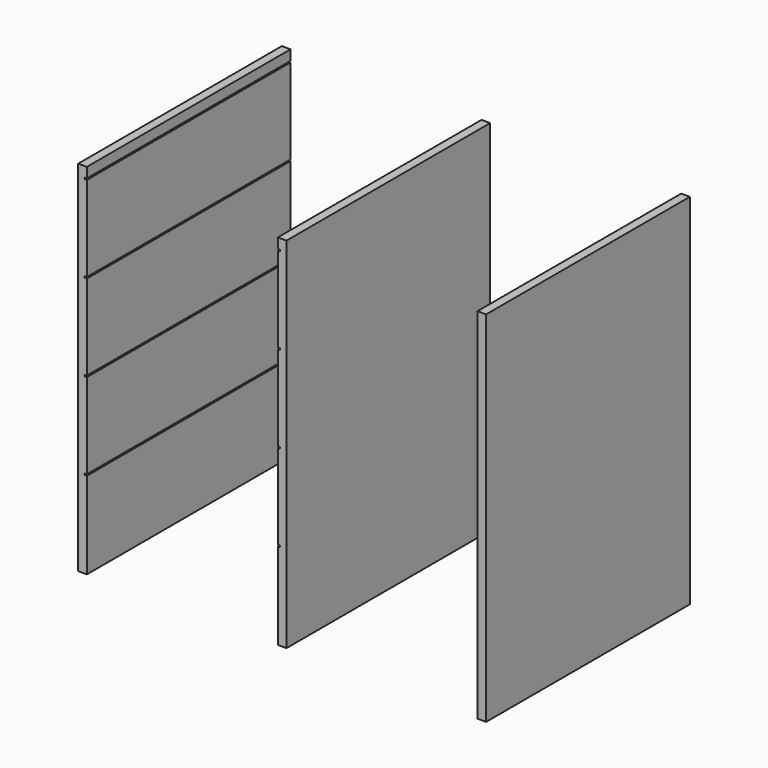
from build123d import *

# Parameters (mm, degrees)
F0_W     = 19.05
F0_H     = 787.4
F1_DEPTH = 558.8
F2_W     = 428.625
F2_H     = 3.175
F3_DEPTH = 558.801


with BuildPart() as f1:
    # F0 (on Front) → F1 (new body)
    with BuildSketch(Plane.XZ):
        with Locations((9.525, 393.7)):
            Rectangle(F0_W, F0_H)
        with Locations((447.675, 393.7)):
            Rectangle(F0_W, F0_H)
        with Locations((885.825, 393.7)):
            Rectangle(F0_W, F0_H)
    extrude(amount=-F1_DEPTH)

    # F2 (on Front) → F3 (cut, through all)
    with BuildSketch(Plane.XZ):
        with Locations((228.6, 192.0875)):
            Rectangle(F2_W, F2_H)
        with Locations((228.6, 382.5875)):
            Rectangle(F2_W, F2_H)
        with Locations((228.6, 573.0875)):
            Rectangle(F2_W, F2_H)
        with Locations((228.6, 763.5875)):
            Rectangle(F2_W, F2_H)
    extrude(amount=-F3_DEPTH, mode=Mode.SUBTRACT)


solid = f1.part
